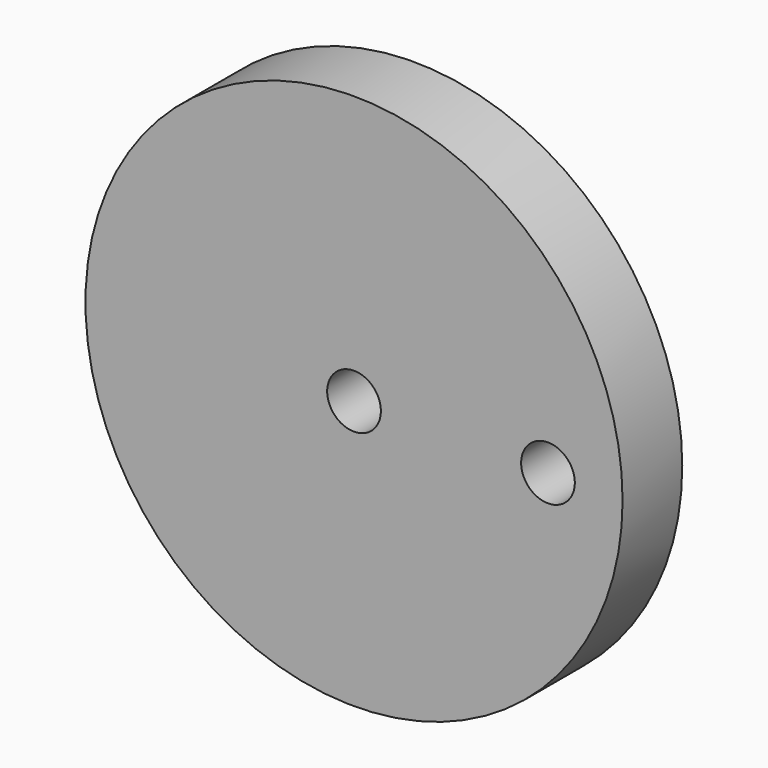
from build123d import *

# Parameters (mm, degrees)
F0_R     = 18
F0_R_2   = 1.8
F1_DEPTH = 5


with BuildPart() as f1:
    # F0 (on Front) → F1 (new body)
    with BuildSketch(Plane.XZ):
        Circle(F0_R)
        Circle(F0_R_2, mode=Mode.SUBTRACT)
        with Locations((13, 0)):
            Circle(F0_R_2, mode=Mode.SUBTRACT)
    extrude(amount=F1_DEPTH)


solid = f1.part
